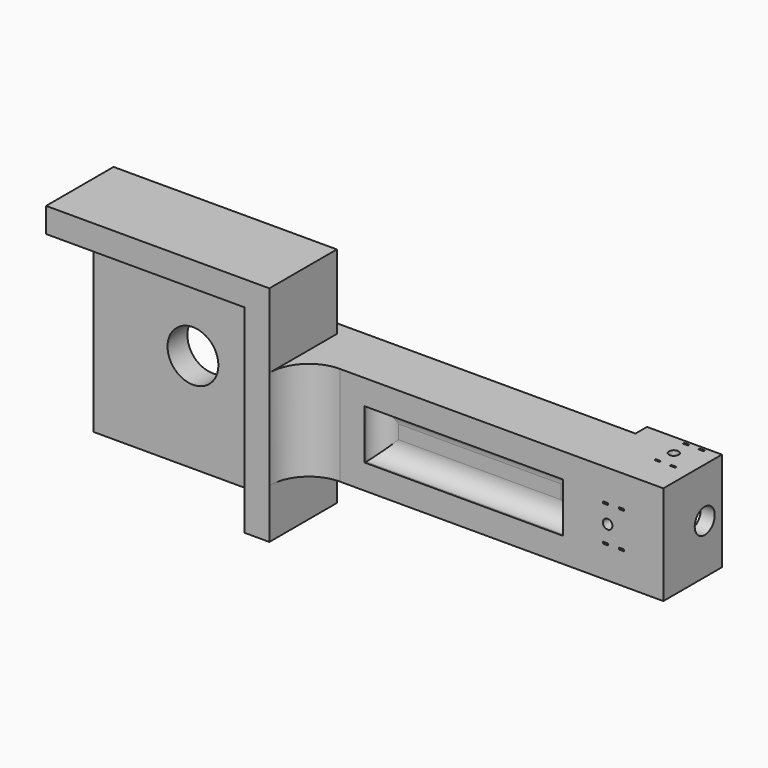
from build123d import *

# Parameters (mm, degrees)
SKETCH_W             = 25.4
SKETCH_H             = 3.175
PAD_DEPTH            = 25.4
SKETCH001_W          = 28.575
SKETCH001_H          = 12.7
PAD001_DEPTH         = 1.81
PAD001_DEPTH_BACK    = 5.715
POCKET_DEPTH         = 9.525
POCKET001_DEPTH      = 12.7
CHAMFER_SIZE         = 1.8034
SKETCH004_R          = 3.2512
POCKET002_DEPTH      = 5.716
PAD002_DEPTH         = 10.795
FILLET_R             = 4.953
SKETCH013_W          = 9.37
SKETCH013_H          = 12.7
SKETCH013_R          = 1.6002
PAD008_DEPTH         = 20.955
POCKET003_DEPTH      = 11.3711
SKETCH014_W          = 2.825
SKETCH014_H          = 10.1538
POCKET004_DEPTH      = 5.6125
SKETCH015_W          = 2.825
SKETCH015_H          = 5.725
POCKET005_DEPTH      = 7.8269
SKETCH016_R          = 0.6125
SKETCH016_W          = 0.65
SKETCH016_H          = 0.225
POCKET006_DEPTH      = 6.6241
SKETCH017_R          = 0.6125
SKETCH017_W          = 0.65
SKETCH017_H          = 0.225
POCKET007_DEPTH      = 7.6241
POCKET007_DEPTH_BACK = 20.9529
SKETCH018_R          = 1.6002
SKETCH019_R          = 2.36517
SKETCH020_W          = 25.4
SKETCH020_H          = 6.35
POCKET008_DEPTH      = 2.54
FILLET001_R          = 2.286


with BuildPart() as part:
    # Sketch → Pad (new body)
    with BuildSketch(Plane.XY):
        with Locations((-12.7, 1.5875)):
            Rectangle(SKETCH_W, SKETCH_H)
    extrude(amount=PAD_DEPTH)

    # Sketch001 (on Face1 of Pad) → Pad001 (join, two sides)
    with BuildSketch(Plane(origin=(0, 3.175, 0), x_dir=(-1, 0, 0), z_dir=(0, 1, 0))) as pad001_sk:
        with Locations((-14.2875, 12.7)):
            Rectangle(SKETCH001_W, SKETCH001_H)
    extrude(amount=PAD001_DEPTH)
    extrude(pad001_sk.sketch, amount=-PAD001_DEPTH_BACK)

    # Sketch002 (on Face13 of Pad001) → Pocket (cut)
    with BuildSketch(Plane.YZ.offset(28.575)):
        Polygon((9.150137, 19.05), (2.800137, 12.7), (9.150137, 6.35), align=None)
    extrude(amount=-POCKET_DEPTH, mode=Mode.SUBTRACT)

    # Sketch003 (on Face16 of Pocket) → Pocket001 (cut)
    with BuildSketch(Plane.YZ.offset(19.05)):
        with BuildLine():
            ThreePointArc((4.08, 14.732), (2.048, 12.7), (4.08, 10.668))
            Line((4.985, 10.668), (4.08, 10.668))
            Line((4.985, 14.732), (4.985, 10.668))
            Line((4.08, 14.732), (4.985, 14.732))
        make_face()
    extrude(amount=-POCKET001_DEPTH, mode=Mode.SUBTRACT)

    # Chamfer
    chamfer_edges = [part.edges().sort_by_distance(p)[0] for p in [
        (0, 4.985, 12.7),
    ]]
    chamfer(chamfer_edges, length=CHAMFER_SIZE)

    # Sketch004 (on Face4 of Chamfer) → Pocket002 (cut, through all)
    with BuildSketch(Plane(origin=(0, 3.175, 0), x_dir=(-1, 0, 0), z_dir=(0, 1, 0))):
        with Locations((12.7, 12.7)):
            Circle(SKETCH004_R)
    extrude(amount=-POCKET002_DEPTH, mode=Mode.SUBTRACT)

    # Sketch006 (on Face4 of Pocket002) → Pad002 (join)
    with BuildSketch(Plane(origin=(0, 3.175, 0), x_dir=(-1, 0, 0), z_dir=(0, 1, 0))):
        Polygon((0, 0), (-3.175, 0), (-3.175, 28.575), (25.4, 28.575), (25.4, 25.4), (0, 25.4), align=None)
    extrude(amount=-PAD002_DEPTH)

    # Fillet
    fillet_edges = [part.edges().sort_by_distance(p)[0] for p in [
        (3.175, -2.54, 12.7),
    ]]
    fillet(fillet_edges, radius=FILLET_R)

    # Sketch013 (on Face4 of Fillet) → Pad008 (join)
    with BuildSketch(Plane.YZ.offset(28.575)):
        with Locations((2.145, 12.7)):
            Rectangle(SKETCH013_W, SKETCH013_H)
        with Locations((4.08, 12.7)):
            Circle(SKETCH013_R, mode=Mode.SUBTRACT)
    extrude(amount=PAD008_DEPTH)

    # Pad008 Face13 → Pocket003 (cut)
    with BuildSketch(Plane(origin=(28.575, 5.919165, 12.7), x_dir=(0, 1, 0), z_dir=(-1, 0, 0))):
        with BuildLine():
            Line((-0.934165, -2.184863), (-0.934165, -6.35))
            Line((-0.934165, -6.35), (0.910835, -6.35))
            Line((0.910835, -6.35), (0.910835, 6.35))
            Line((0.910835, 6.35), (-0.934165, 6.35))
            Line((-0.934165, 6.35), (-0.934165, 2.184863))
            Line((-0.934165, 2.184863), (-1.545926, 1.573102))
            ThreePointArc((-1.545926, 1.573102), (-0.608336, 1.022594), (-0.238965, 0))
            ThreePointArc((-0.238965, 0), (-0.608336, -1.022594), (-1.545926, -1.573102))
            Line((-1.545926, -1.573102), (-0.934165, -2.184863))
        make_face()
    extrude(amount=-POCKET003_DEPTH, mode=Mode.SUBTRACT)

    # Sketch014 (on Face15 of Pocket003) → Pocket004 (cut)
    with BuildSketch(Plane(origin=(0, 6.83, 0), x_dir=(-1, 0, 0), z_dir=(0, 1, 0))):
        with Locations((-46.325, 12.7)):
            Rectangle(SKETCH014_W, SKETCH014_H)
    extrude(amount=-POCKET004_DEPTH, mode=Mode.SUBTRACT)

    # Sketch015 (on Face15 of Pocket004) → Pocket005 (cut)
    with BuildSketch(Plane(origin=(0, 6.83, 0), x_dir=(-1, 0, 0), z_dir=(0, 1, 0))):
        with Locations((-43.15, 12.7)):
            Rectangle(SKETCH015_W, SKETCH015_H)
    extrude(amount=-POCKET005_DEPTH, mode=Mode.SUBTRACT)

    # Sketch016 (on Face53 of Pocket005) → Pocket006 (cut, through all)
    with BuildSketch(Plane(origin=(0, -0.9969, 0), x_dir=(-1, 0, 0), z_dir=(0, 1, 0))):
        with Locations((-42.4, 12.7)):
            Circle(SKETCH016_R)
        with Locations((-44.15, 14.975)):
            Rectangle(SKETCH016_W, SKETCH016_H)
        with Locations((-44.15, 10.425)):
            Rectangle(SKETCH016_W, SKETCH016_H)
        with Locations((-42.15, 14.975)):
            Rectangle(SKETCH016_W, SKETCH016_H)
        with Locations((-42.15, 10.425)):
            Rectangle(SKETCH016_W, SKETCH016_H)
    extrude(amount=-POCKET006_DEPTH, mode=Mode.SUBTRACT)

    # Sketch017 (on Face52 of Pocket006) → Pocket007 (cut, two sides)
    with BuildSketch(Plane.XY.offset(7.6231)) as pocket007_sk:
        with Locations((45.575, 4.07924)):
            Circle(SKETCH017_R)
        with Locations((45.325, 6.35424)):
            Rectangle(SKETCH017_W, SKETCH017_H)
        with Locations((45.325, 1.80424)):
            Rectangle(SKETCH017_W, SKETCH017_H)
        with Locations((47.325, 6.35424)):
            Rectangle(SKETCH017_W, SKETCH017_H)
        with Locations((47.325, 1.80424)):
            Rectangle(SKETCH017_W, SKETCH017_H)
    extrude(amount=-POCKET007_DEPTH, mode=Mode.SUBTRACT)
    extrude(pocket007_sk.sketch, amount=POCKET007_DEPTH_BACK, mode=Mode.SUBTRACT)

    # Sketch018 (on Face12 of Pocket007) → SubtractiveLoft section 0
    with BuildSketch(Plane(origin=(39.9461, 0, 0), x_dir=(0, -1, 0), z_dir=(-1, 0, 0))):
        with Locations((-4.07924, 12.7)):
            Circle(SKETCH018_R)
    # Sketch019 (on Face80 of Pocket007) → SubtractiveLoft section 1
    with BuildSketch(Plane.YZ.offset(28.575)):
        with Locations((4.07924, 12.7)):
            Circle(SKETCH019_R)
    loft(mode=Mode.SUBTRACT)

    # Sketch020 (on Face2 of SubtractiveLoft) → Pocket008 (cut)
    with BuildSketch(Plane.XZ.offset(2.54)):
        with Locations((24.003, 12.7)):
            Rectangle(SKETCH020_W, SKETCH020_H)
    extrude(amount=-POCKET008_DEPTH, mode=Mode.SUBTRACT)

    # Fillet001
    fillet001_edges = [part.edges().sort_by_distance(p)[0] for p in [
        (24.003, 0, 15.875),
        (36.703, 0, 12.7),
        (24.003, 0, 9.525),
        (11.303, 0, 12.7),
    ]]
    fillet(fillet001_edges, radius=FILLET001_R)


solid = part.part
